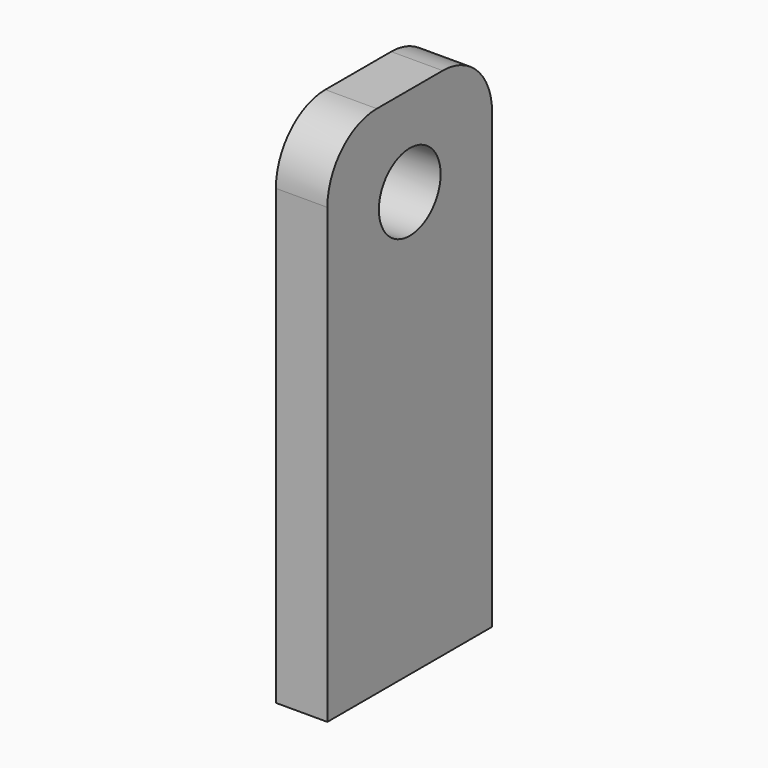
from build123d import *

# Parameters (mm, degrees)
F0_W     = 6.35
F0_H     = 63.5
F1_DEPTH = 25.4
F2_R     = 7.62
F3_R     = 4.7625
F4_DEPTH = 25.4


with BuildPart() as f1:
    # F0 (on Front) → F1 (new body)
    with BuildSketch(Plane.XZ):
        with Locations((3.175, 31.75)):
            Rectangle(F0_W, F0_H)
    extrude(amount=F1_DEPTH)

    # F2
    f2_edges = [f1.edges().sort_by_distance(p)[0] for p in [
        (3.175, -25.4, 63.5),
        (3.175, 0, 63.5),
    ]]
    fillet(f2_edges, radius=F2_R)

    # F3 (on face) → F4 (cut)
    with BuildSketch(Plane.YZ.offset(6.35)):
        with Locations((-12.7, 52.3875)):
            Circle(F3_R)
    extrude(amount=-F4_DEPTH, mode=Mode.SUBTRACT)


solid = f1.part
